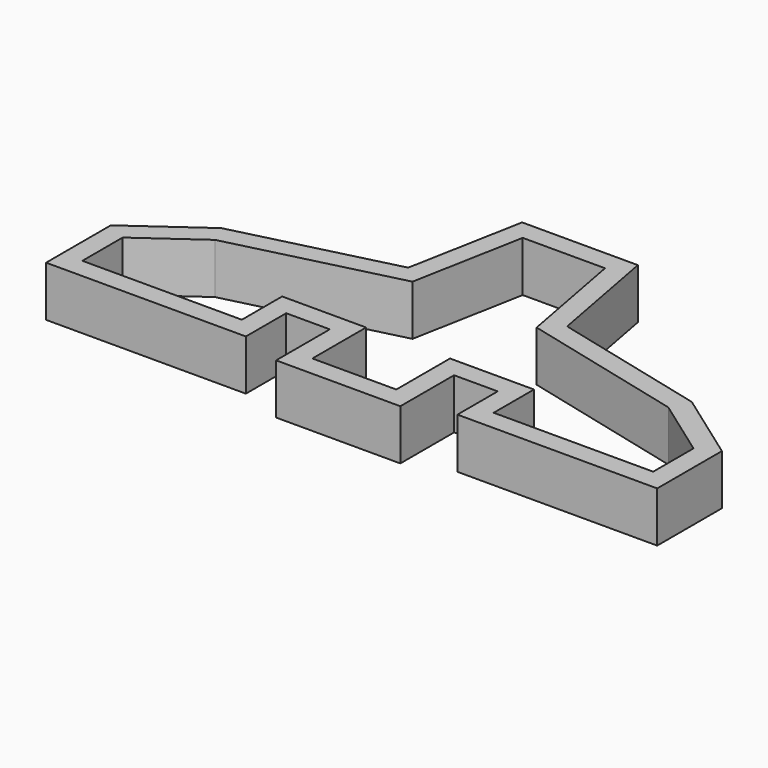
from build123d import *

# Parameters (mm, degrees)
F1_DEPTH = 3


with BuildPart() as f1:
    # F0 (on Top) → F1 (new body)
    with BuildSketch(Plane.XY):
        Polygon((0, -6.7), (3.7, -6.7), (3.7, -2.7), (6.3, -2.7), (6.3, -5.7), (18.2, -5.7), (18.2, -0.882459), (14.012083, 2.108911), (4.734347, 4.428345), (3.445912, 11.3), (0, 11.3), (-3.445912, 11.3), (-4.734347, 4.428345), (-14.012083, 2.108911), (-18.2, -0.882459), (-18.2, -5.7), (-6.3, -5.7), (-6.3, -2.7), (-3.7, -2.7), (-3.7, -6.7), align=None)
        Polygon((2.5, -1.5), (2.5, -5.5), (0, -5.5), (-2.5, -5.5), (-2.5, -1.5), (-7.5, -1.5), (-7.5, -4.5), (-17, -4.5), (-17, -1.5), (-13.5, 1), (-3.696721, 3.45082), (-2.45, 10.1), (0, 10.1), (2.45, 10.1), (3.696721, 3.45082), (13.5, 1), (17, -1.5), (17, -4.5), (7.5, -4.5), (7.5, -1.5), align=None, mode=Mode.SUBTRACT)
    extrude(amount=F1_DEPTH)


solid = f1.part
